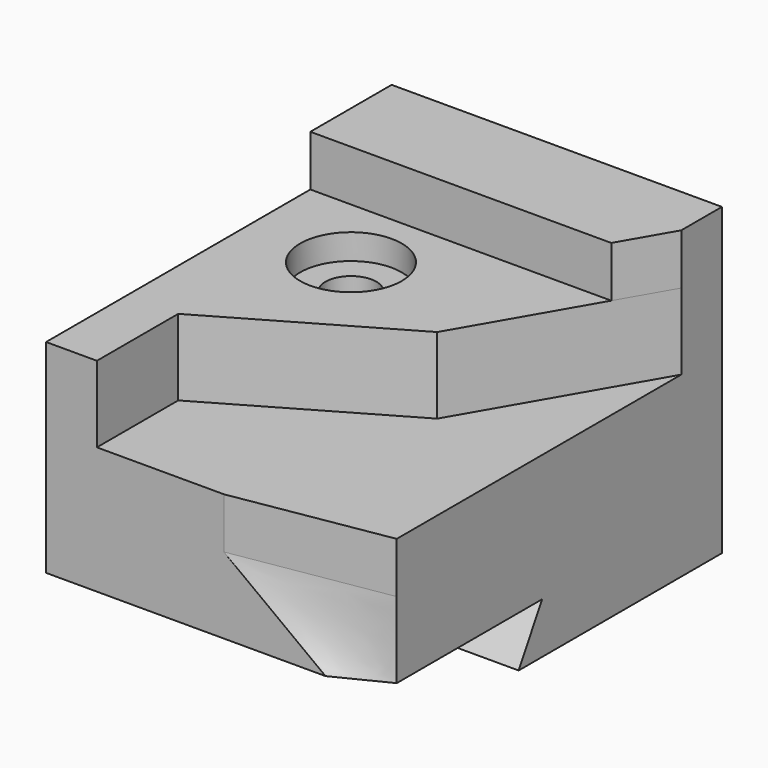
from build123d import *

# Parameters (mm, degrees)
F0_W            = 65
F0_H            = 85
F1_DEPTH        = 25
F3_DEPTH        = 15
F5_DEPTH        = 10
F9_DEPTH        = 10
F12_DEPTH       = 65
F14_D           = 10
F14_CBORE_D     = 20
F14_CBORE_DEPTH = 5


with BuildPart() as f1:
    # F0 (on Top) → F1 (new body)
    with BuildSketch(Plane.XY):
        Rectangle(F0_W, F0_H)
    extrude(amount=F1_DEPTH)

    # F2 (on face) → F3 (join)
    with BuildSketch(Plane.XY.offset(25)):
        Polygon((-32.5, -42.5), (-22.5, -42.5), (-22.5, -22.5), (12.368603, -2.368603), (32.5, 32.5), (32.5, 42.5), (-32.5, 42.5), align=None)
    extrude(amount=F3_DEPTH)

    # F4 (on face) → F5 (join)
    with BuildSketch(Plane.XY.offset(40)):
        Polygon((-32.5, 42.5), (-32.5, 22.5), (26.726497, 22.5), (32.5, 32.5), (32.5, 42.5), align=None)
    extrude(amount=F5_DEPTH)

    # F8 (on face) → F9 (cut)
    with BuildSketch(Plane.XY.offset(25)):
        Polygon((32.5, -37.5), (2.5, -42.5), (32.5, -42.5), align=None)
    extrude(amount=-F9_DEPTH, mode=Mode.SUBTRACT)

    # F9_face (on face) → F10 section 0
    with BuildSketch(Plane(origin=(22.5, -40.833333, 15), x_dir=(1, 0, 0), z_dir=(0, 0, 1))):
        Polygon((10, 3.333333), (-20, -1.666667), (10, -1.666667), align=None)
    # F6 (on face) → F10 section 1
    with BuildSketch(Plane(origin=(0, 0, 0), x_dir=(1, 0, 0), z_dir=(0, 0, -1))):
        Polygon((32.5, 42.5), (22.5, 42.5), (32.5, 37.5), align=None)
    loft(mode=Mode.SUBTRACT)

    # F11 (on face) → F12 (join, through all)
    with BuildSketch(Plane.YZ.offset(32.5)):
        Polygon((42.5, -10), (42.5, 0), (-1.726497, 0), (-7.5, -10), align=None)
    extrude(amount=-F12_DEPTH)

    # F14 (through all)
    with Locations(Plane.XY.offset(40)):
        with Locations((-12.5, 7.5)):
            CounterBoreHole(F14_D / 2, F14_CBORE_D / 2, F14_CBORE_DEPTH)


solid = f1.part
